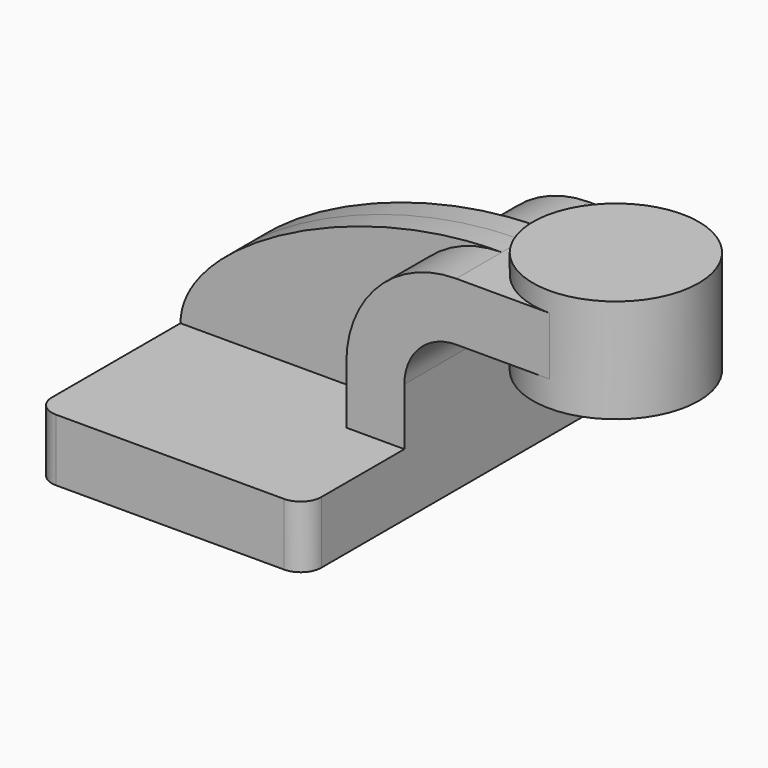
from build123d import *

# Parameters (mm, degrees)
F1_DEPTH = 63.5
F0_W     = 25.4
F0_H     = 17.7799989994
F2_DEPTH = 25.4
F3_DEPTH = 7.9375
F5_R     = 6.35


with BuildPart() as f1:
    # F0 (on Front) → F1 (new body, symmetric)
    with BuildSketch(Plane.XZ):
        Polygon((-41.275, 9.525), (-41.275, -9.525), (41.275, -9.525), (41.275, -7.9502), (41.275, 9.525), (23.4950010006, 9.525), align=None)
    extrude(amount=F1_DEPTH, both=True)

    # F0 (on Front) → F2 (join, symmetric)
    with BuildSketch(Plane.XZ):
        with BuildLine():
            Line((23.4950010006, 27.0002), (23.4950010006, 9.525))
            Line((23.4950010006, 9.525), (41.275, 9.525))
            Line((41.275, 9.525), (41.275, 27.0002))
            ThreePointArc((41.275, 27.0002), (45.9246798487, 38.2255201513), (57.15, 42.8752))
            Line((57.15, 42.8752), (60.325, 42.8752))
            Line((60.325, 42.8752), (60.325, 60.6551989994))
            Line((60.325, 60.6551989994), (57.15, 60.6551989994))
            ThreePointArc((57.15, 60.6551989994), (33.3523219867, 50.7978780133), (23.4950010006, 27.0002))
        make_face()
        with Locations((73.025, 51.7651994997)):
            Rectangle(F0_W, F0_H)
    extrude(amount=F2_DEPTH, both=True)

    # F0 (on Front) → F3 (join, symmetric)
    with BuildSketch(Plane.XZ):
        with BuildLine():
            add(Edge.make_bspline(
                [(-41.275, 9.525), (-41.1387570202, 33.0824591219), (11.9141172618, 61.0640980303), (57.15, 60.6551989994)],
                knots=[0, 0, 0, 0, 110.9133800527, 110.9133800527, 110.9133800527, 110.9133800527], degree=3))
            Line((-41.275, 9.525), (23.4950010006, 9.525))
            Line((23.4950010006, 9.525), (23.4950010006, 27.0002))
            ThreePointArc((23.4950010006, 27.0002), (33.3523219867, 50.7978780133), (57.15, 60.6551989994))
        make_face()
    extrude(amount=F3_DEPTH, both=True)

    # F0 (on Front) → F4 (revolve)
    with BuildSketch(Plane.XZ):
        Polygon((85.725, 66.675), (85.725, 60.6551989994), (85.725, 42.8752), (85.725, 34.925), (111.125, 34.925), (111.125, 66.675), align=None)
    revolve(axis=Axis((85.725, 0, 50.8), (0, 0, 1)))

    # F5
    f5_edges = [f1.edges().sort_by_distance(p)[0] for p in [
        (41.275, -63.5, 0),
        (-41.275, -63.5, 0),
        (41.275, 63.5, 0),
        (-41.275, 63.5, 0),
    ]]
    fillet(f5_edges, radius=F5_R)


solid = f1.part
